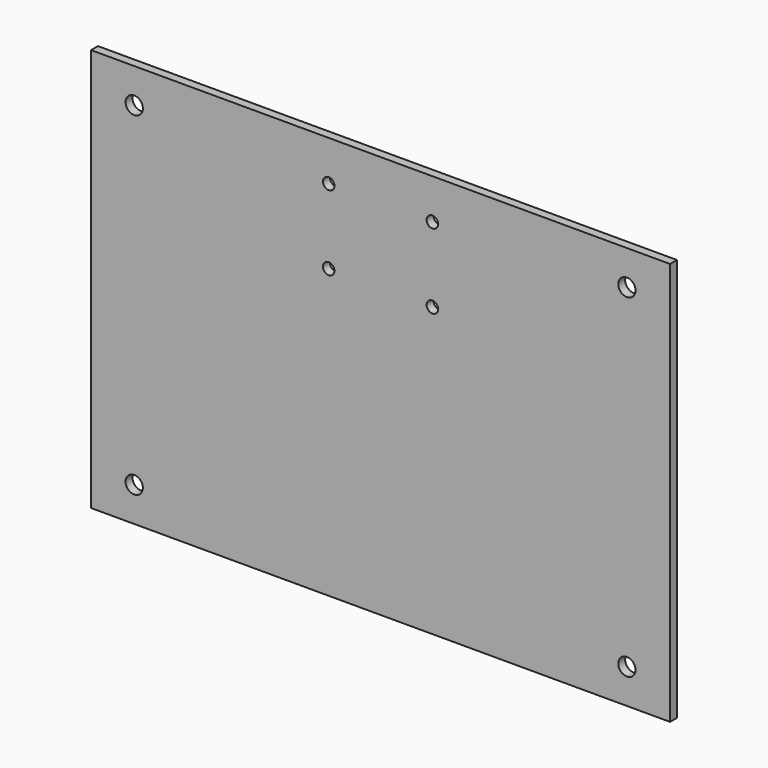
from build123d import *

# Parameters (mm, degrees)
F0_W     = 201.1
F0_H     = 140
F0_R     = 3
F0_R_2   = 2
F1_DEPTH = 3


with BuildPart() as f1:
    # F0 (on Front) → F1 (new body)
    with BuildSketch(Plane.XZ):
        Rectangle(F0_W, F0_H)
        with Locations((-85.55, -58)):
            Circle(F0_R, mode=Mode.SUBTRACT)
        with Locations((85.55, -58)):
            Circle(F0_R, mode=Mode.SUBTRACT)
        with Locations((-18, 30)):
            Circle(F0_R_2, mode=Mode.SUBTRACT)
        with Locations((-85.55, 58)):
            Circle(F0_R, mode=Mode.SUBTRACT)
        with Locations((-18, 56)):
            Circle(F0_R_2, mode=Mode.SUBTRACT)
        with Locations((18, 30)):
            Circle(F0_R_2, mode=Mode.SUBTRACT)
        with Locations((18, 56)):
            Circle(F0_R_2, mode=Mode.SUBTRACT)
        with Locations((85.55, 58)):
            Circle(F0_R, mode=Mode.SUBTRACT)
    extrude(amount=F1_DEPTH)


solid = f1.part
